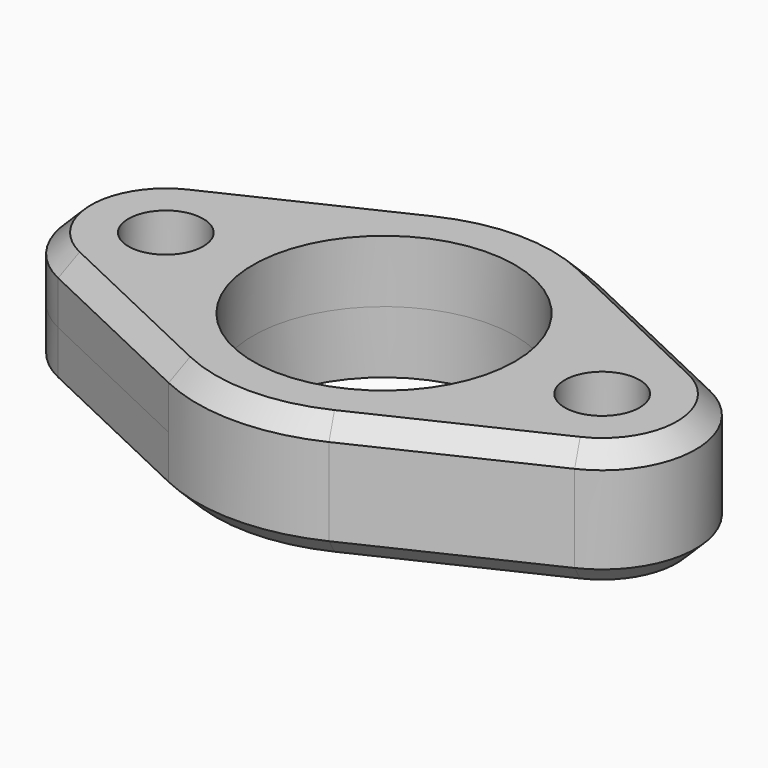
from build123d import *

# Parameters (mm, degrees)
F0_R     = 6
F0_R_2   = 21
F1_DEPTH = 10
F2_SIZE  = 3


with BuildPart() as f1:
    # F0 (on Top) → F1 (new body)
    with BuildSketch(Plane.XY):
        with BuildLine():
            Line((41.428571, 13.552619), (12.857143, 27.105237))
            ThreePointArc((12.857143, 27.105237), (0, 30), (-12.857143, 27.105237))
            Line((-12.857143, 27.105237), (-41.428571, 13.552619))
            ThreePointArc((-41.428571, 13.552619), (-50, 0), (-41.428571, -13.552619))
            Line((-41.428571, -13.552619), (-12.857143, -27.105237))
            ThreePointArc((-12.857143, -27.105237), (0, -30), (12.857143, -27.105237))
            Line((12.857143, -27.105237), (41.428571, -13.552619))
            ThreePointArc((41.428571, -13.552619), (50, 0), (41.428571, 13.552619))
        make_face()
        with Locations((-35, 0)):
            Circle(F0_R, mode=Mode.SUBTRACT)
        Circle(F0_R_2, mode=Mode.SUBTRACT)
        with Locations((35, 0)):
            Circle(F0_R, mode=Mode.SUBTRACT)
    extrude(amount=F1_DEPTH)

    # F2
    f2_edges = [f1.edges().sort_by_distance(p)[0] for p in [
        (-27.142857, -20.328928, 10),
        (0, -30, 10),
        (27.142857, -20.328928, 10),
    ]]
    chamfer(f2_edges, length=F2_SIZE)

    # F3: F1 across face


with BuildPart() as f1_1:
    add(f1.part)
    add(f1.part.mirror(Plane(origin=(0, 0, 0), x_dir=(1, 0, 0), z_dir=(0, 0, -1))))


solid = f1_1.part
